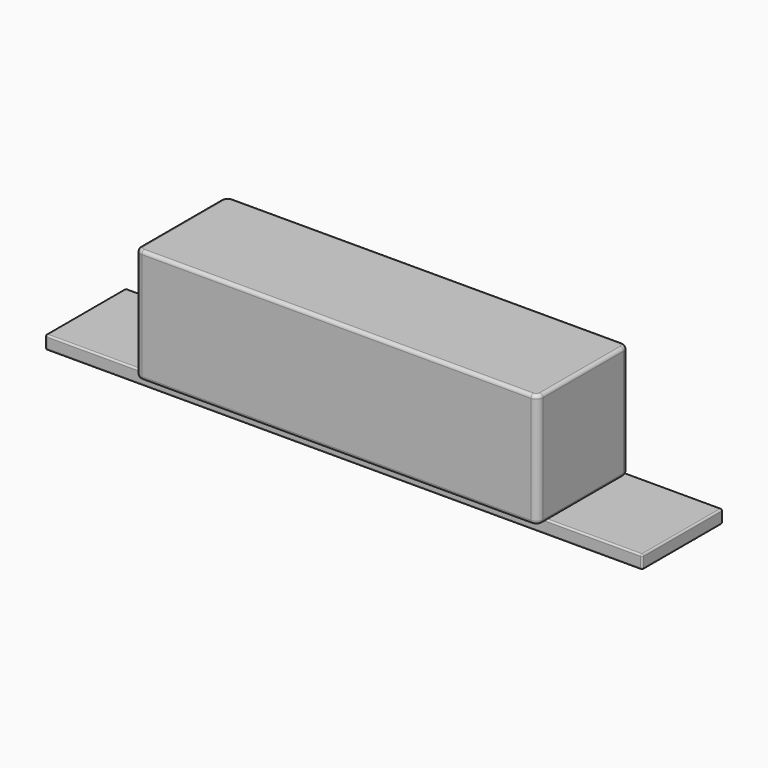
from build123d import *

# Parameters (mm, degrees)
BOX_W        = 60
BOX_H        = 17
BOX_DEPTH    = 17
FILLET001_R  = 1
FILLET002_R  = 0.5
BOX008_W     = 89
BOX008_H     = 15
BOX008_DEPTH = 2
FILLET003_R  = 0.25


with BuildPart() as obj1:
    # Box → Box (new body)
    with BuildSketch(Plane(origin=(0, -8.5, -17), x_dir=(1, 0, 0), z_dir=(0, 0, 1))):
        with Locations((30, 8.5)):
            Rectangle(BOX_W, BOX_H)
    extrude(amount=BOX_DEPTH)

    # Fillet001
    fillet001_edges = [obj1.edges().sort_by_distance(p)[0] for p in [
        (0, -8.5, -8.5),
        (0, 8.5, -8.5),
        (60, -8.5, -8.5),
        (60, 8.5, -8.5),
    ]]
    fillet(fillet001_edges, radius=FILLET001_R)

    # Fillet002
    fillet002_edges = [obj1.edges().sort_by_distance(p)[0] for p in [
        (0, 0, 0),
        (0, 0, -17),
        (30, -8.5, 0),
        (30, 8.5, 0),
        (60, 0, 0),
        (30, -8.5, -17),
        (30, 8.5, -17),
        (60, 0, -17),
    ]]
    fillet(fillet002_edges, radius=FILLET002_R)


with BuildPart() as obj1_1:
    # Fillet002 placement: moved
    add(obj1.part.moved(Location((35, 0, -2.5))))


with BuildPart() as fusion035:
    # Box008 → Box008 (new body)
    with BuildSketch(Plane(origin=(0, -6.5, -2), x_dir=(1, 0, 0), z_dir=(0, 0, 1))):
        with Locations((44.5, 7.5)):
            Rectangle(BOX008_W, BOX008_H)
    extrude(amount=BOX008_DEPTH)

    # Fillet003
    fillet003_edges = [fusion035.edges().sort_by_distance(p)[0] for p in [
        (0, -6.5, -1),
        (0, 1, 0),
        (0, 8.5, -1),
        (0, 1, -2),
        (89, -6.5, -1),
        (89, 1, 0),
        (89, 8.5, -1),
        (89, 1, -2),
        (44.5, -6.5, -2),
        (44.5, -6.5, 0),
        (44.5, 8.5, -2),
        (44.5, 8.5, 0),
    ]]
    fillet(fillet003_edges, radius=FILLET003_R)


with BuildPart() as fusion035_1:
    # Fillet003 placement: moved
    add(fusion035.part.moved(Location((20, 0, -19.5))))

    # Fusion035: union obj1
    add(obj1_1.part)


solid = fusion035_1.part
